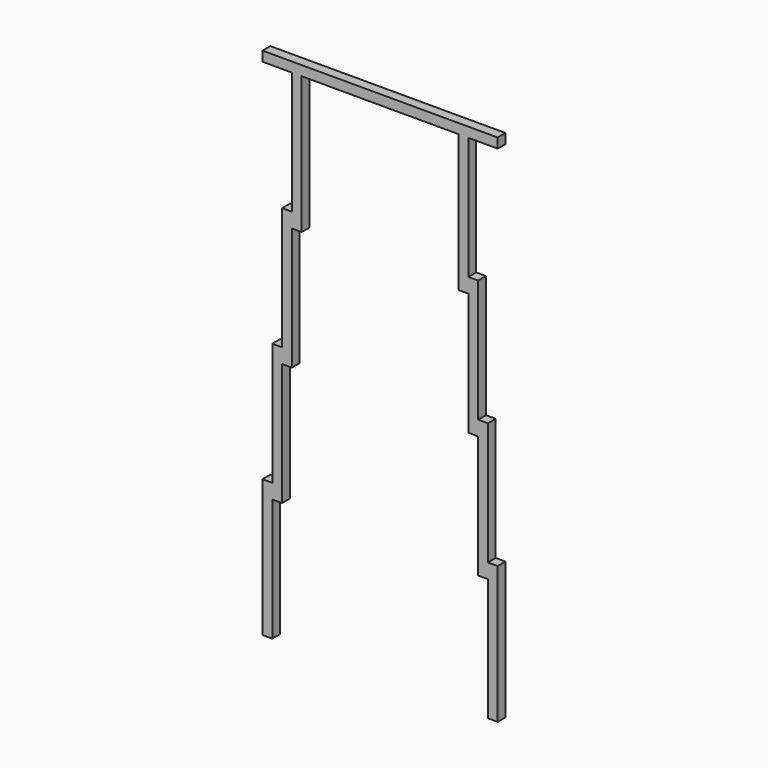
from build123d import *

# Parameters (mm, degrees)
BOX033_W           = 20
BOX033_H           = 20
BOX033_DEPTH       = 280
BOX034_W           = 20
BOX034_H           = 20
BOX034_DEPTH       = 280
BOX031_W           = 20
BOX031_H           = 20
BOX031_DEPTH       = 280
BOX032_W           = 20
BOX032_H           = 20
BOX032_DEPTH       = 280
BOX029_W           = 20
BOX029_H           = 20
BOX029_DEPTH       = 280
BOX030_W           = 20
BOX030_H           = 20
BOX030_DEPTH       = 280
BOX027_W           = 20
BOX027_H           = 20
BOX027_DEPTH       = 280
BOX028_W           = 20
BOX028_H           = 20
BOX028_DEPTH       = 280
BOX035_W           = 20
BOX035_H           = 20
BOX035_DEPTH       = 480
BOX035_PITCH_ANGLE = 90


with BuildPart() as box033:
    # Box033 → Box033 (new body)
    with BuildSketch(Plane(origin=(70, 10, 760), x_dir=(1, 0, 0), z_dir=(0, 0, 1))):
        with Locations((10, 10)):
            Rectangle(BOX033_W, BOX033_H)
    extrude(amount=BOX033_DEPTH)


with BuildPart() as box034:
    # Box034 → Box034 (new body)
    with BuildSketch(Plane(origin=(410, 10, 760), x_dir=(1, 0, 0), z_dir=(0, 0, 1))):
        with Locations((10, 10)):
            Rectangle(BOX034_W, BOX034_H)
    extrude(amount=BOX034_DEPTH)


with BuildPart() as box031:
    # Box031 → Box031 (new body)
    with BuildSketch(Plane(origin=(50, 10, 510), x_dir=(1, 0, 0), z_dir=(0, 0, 1))):
        with Locations((10, 10)):
            Rectangle(BOX031_W, BOX031_H)
    extrude(amount=BOX031_DEPTH)


with BuildPart() as box032:
    # Box032 → Box032 (new body)
    with BuildSketch(Plane(origin=(430, 10, 510), x_dir=(1, 0, 0), z_dir=(0, 0, 1))):
        with Locations((10, 10)):
            Rectangle(BOX032_W, BOX032_H)
    extrude(amount=BOX032_DEPTH)


with BuildPart() as box029:
    # Box029 → Box029 (new body)
    with BuildSketch(Plane(origin=(30, 10, 260), x_dir=(1, 0, 0), z_dir=(0, 0, 1))):
        with Locations((10, 10)):
            Rectangle(BOX029_W, BOX029_H)
    extrude(amount=BOX029_DEPTH)


with BuildPart() as box030:
    # Box030 → Box030 (new body)
    with BuildSketch(Plane(origin=(450, 10, 260), x_dir=(1, 0, 0), z_dir=(0, 0, 1))):
        with Locations((10, 10)):
            Rectangle(BOX030_W, BOX030_H)
    extrude(amount=BOX030_DEPTH)


with BuildPart() as box027:
    # Box027 → Box027 (new body)
    with BuildSketch(Plane(origin=(10, 10, 10), x_dir=(1, 0, 0), z_dir=(0, 0, 1))):
        with Locations((10, 10)):
            Rectangle(BOX027_W, BOX027_H)
    extrude(amount=BOX027_DEPTH)


with BuildPart() as box028:
    # Box028 → Box028 (new body)
    with BuildSketch(Plane(origin=(470, 10, 10), x_dir=(1, 0, 0), z_dir=(0, 0, 1))):
        with Locations((10, 10)):
            Rectangle(BOX028_W, BOX028_H)
    extrude(amount=BOX028_DEPTH)


with BuildPart() as solar_panel_supporter:
    # Box035 → Box035 (new body)
    with BuildSketch(Plane.XY):
        with Locations((10, 10)):
            Rectangle(BOX035_W, BOX035_H)
    extrude(amount=BOX035_DEPTH)


with BuildPart() as solar_panel_supporter_1:
    # Box035 pitch: moved
    add(solar_panel_supporter.part.rotate(Axis((0, 0, 0), (0, 1, 0)), BOX035_PITCH_ANGLE))


with BuildPart() as solar_panel_supporter_2:
    # Box035 placement: moved
    add(solar_panel_supporter_1.part.moved(Location((10, 10, 1060))))

    # Fusion013: union Box033, Box034, Box031, Box032, Box029, Box030, Box027, Box028
    add(box033.part)
    add(box034.part)
    add(box031.part)
    add(box032.part)
    add(box029.part)
    add(box030.part)
    add(box027.part)
    add(box028.part)


solid = solar_panel_supporter_2.part
